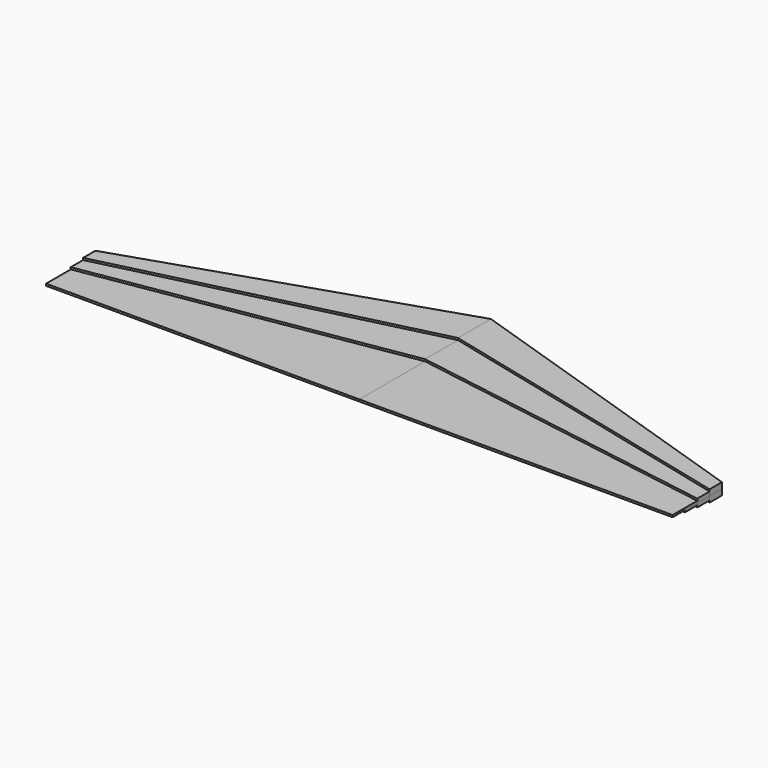
from build123d import *

# Parameters (mm, degrees)
F1_DEPTH = 4.76
F2_DEPTH = 9.52
F3_DEPTH = 14.28
F4_DEPTH = 9.52
F5_DEPTH = 14.28
F6_DEPTH = 4.776


with BuildPart() as f1:
    # F0 (on Top) → F1 (new body)
    with BuildSketch(Plane.XY):
        Polygon((381, -54), (-381, -179), (-381, -216.5), (381, -154), align=None)
        Polygon((381, 46), (-381, -141.5), (-381, -179), (381, -54), align=None)
        Polygon((381, 146), (-381, -104), (-381, -141.5), (381, 46), align=None)
        Polygon((381, -154), (-381, -216.5), (-381, -254), (381, -254), align=None)
    extrude(amount=F1_DEPTH)


with BuildPart() as f2:
    # F0 (on Top) → F2 (new body)
    with BuildSketch(Plane.XY):
        Polygon((381, 46), (-381, -141.5), (-381, -179), (381, -54), align=None)
        Polygon((381, 146), (-381, -104), (-381, -141.5), (381, 46), align=None)
    extrude(amount=F2_DEPTH)


with BuildPart() as f3:
    # F0 (on Top) → F3 (new body)
    with BuildSketch(Plane.XY):
        Polygon((381, 146), (-381, -104), (-381, -141.5), (381, 46), align=None)
    extrude(amount=F3_DEPTH)


with BuildPart() as f4:
    # F0 (on Top) → F4 (new body)
    with BuildSketch(Plane.XY):
        Polygon((381, 46), (-381, -141.5), (-381, -179), (381, -54), align=None)
        Polygon((381, 146), (-381, -104), (-381, -141.5), (381, 46), align=None)
    extrude(amount=-F4_DEPTH)


with BuildPart() as f5:
    # F0 (on Top) → F5 (new body)
    with BuildSketch(Plane.XY):
        Polygon((381, 146), (-381, -104), (-381, -141.5), (381, 46), align=None)
    extrude(amount=-F5_DEPTH)


with BuildPart() as f6:
    # F0 (on Top) → F6 (new body)
    with BuildSketch(Plane.XY):
        Polygon((381, -54), (-381, -179), (-381, -216.5), (381, -154), align=None)
    extrude(amount=-F6_DEPTH)


with BuildPart() as f7_1:
    # F7: instance of F1
    add(f1.part.mirror(Plane(origin=(381, -54, 2.38), x_dir=(0, 1, 0), z_dir=(1, 0, 0))))


with BuildPart() as f7_2:
    # F7: instance of F2
    add(f2.part.mirror(Plane(origin=(381, -54, 2.38), x_dir=(0, 1, 0), z_dir=(1, 0, 0))))


with BuildPart() as f7_3:
    # F7: instance of F3
    add(f3.part.mirror(Plane(origin=(381, -54, 2.38), x_dir=(0, 1, 0), z_dir=(1, 0, 0))))


with BuildPart() as f7_4:
    # F7: instance of F4
    add(f4.part.mirror(Plane(origin=(381, -54, 2.38), x_dir=(0, 1, 0), z_dir=(1, 0, 0))))


with BuildPart() as f7_5:
    # F7: instance of F5
    add(f5.part.mirror(Plane(origin=(381, -54, 2.38), x_dir=(0, 1, 0), z_dir=(1, 0, 0))))


with BuildPart() as f7_6:
    # F7: instance of F6
    add(f6.part.mirror(Plane(origin=(381, -54, 2.38), x_dir=(0, 1, 0), z_dir=(1, 0, 0))))


solid = Compound([f1.part, f2.part, f3.part, f4.part, f5.part, f6.part, f7_1.part, f7_2.part, f7_3.part, f7_4.part, f7_5.part, f7_6.part])
